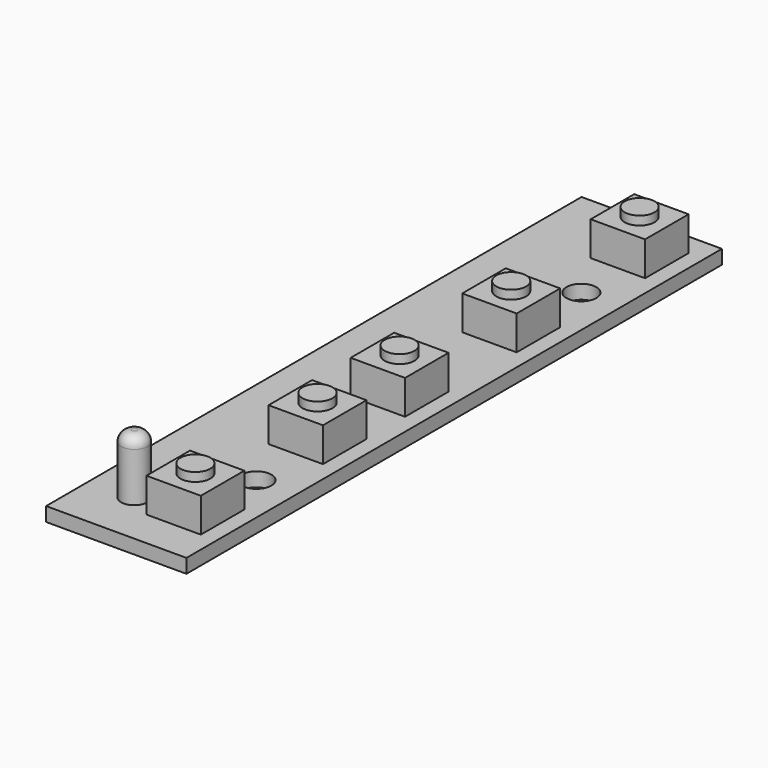
from build123d import *

# Parameters (mm, degrees)
F0_W     = 16
F0_H     = 76.3
F0_R     = 1.7
F1_DEPTH = 1.6
F2_W     = 6.2
F2_H     = 6.2
F2_R     = 1.7
F3_DEPTH = 3.9
F4_DEPTH = 4.9
F2_R_2   = 1.5
F5_DEPTH = 6.8
F6_R     = 1.2
F7_W     = 4.7
F7_H     = 18.1
F8_DEPTH = 5.5


with BuildPart() as f1:
    # F0 (on Top) → F1 (new body)
    with BuildSketch(Plane.XY):
        Rectangle(F0_W, F0_H)
        with Locations((3.5, -22.55)):
            Circle(F0_R, mode=Mode.SUBTRACT)
        with Locations((3.5, 23.75)):
            Circle(F0_R, mode=Mode.SUBTRACT)
    extrude(amount=-F1_DEPTH)

    # F2 (on face) → F3 (join)
    with BuildSketch(Plane.XY):
        with Locations((3.1, -30.75)):
            Rectangle(F2_W, F2_H)
        with Locations((3.1, -30.75)):
            Circle(F2_R, mode=Mode.SUBTRACT)
        with Locations((3.1, -13.35)):
            Rectangle(F2_W, F2_H)
        with Locations((3.1, -13.35)):
            Circle(F2_R, mode=Mode.SUBTRACT)
        with Locations((3.1, -1.65)):
            Rectangle(F2_W, F2_H)
        with Locations((3.1, -1.65)):
            Circle(F2_R, mode=Mode.SUBTRACT)
        with Locations((3.1, 14.25)):
            Rectangle(F2_W, F2_H)
        with Locations((3.1, 14.25)):
            Circle(F2_R, mode=Mode.SUBTRACT)
        with Locations((3.1, 32.55)):
            Rectangle(F2_W, F2_H)
        with Locations((3.1, 32.55)):
            Circle(F2_R, mode=Mode.SUBTRACT)
    extrude(amount=F3_DEPTH)

    # F2 (on face) → F4 (join)
    with BuildSketch(Plane.XY):
        with Locations((3.1, 32.55)):
            Circle(F2_R)
        with Locations((3.1, 14.25)):
            Circle(F2_R)
        with Locations((3.1, -1.65)):
            Circle(F2_R)
        with Locations((3.1, -13.35)):
            Circle(F2_R)
        with Locations((3.1, -30.75)):
            Circle(F2_R)
    extrude(amount=F4_DEPTH)

    # F2 (on face) → F5 (join)
    with BuildSketch(Plane.XY):
        with Locations((-2.9, -31.95)):
            Circle(F2_R_2)
    extrude(amount=F5_DEPTH)

    # F6
    f6_edges = [f1.edges().sort_by_distance(p)[0] for p in [
        (-4.4, -31.95, 6.8),
    ]]
    fillet(f6_edges, radius=F6_R)

    # F7 (on face) → F8 (join)
    with BuildSketch(Plane(origin=(0, 0, -1.6), x_dir=(1, 0, 0), z_dir=(0, 0, -1))):
        with Locations((-5.65, 0.1)):
            Rectangle(F7_W, F7_H)
    extrude(amount=F8_DEPTH)


solid = f1.part
